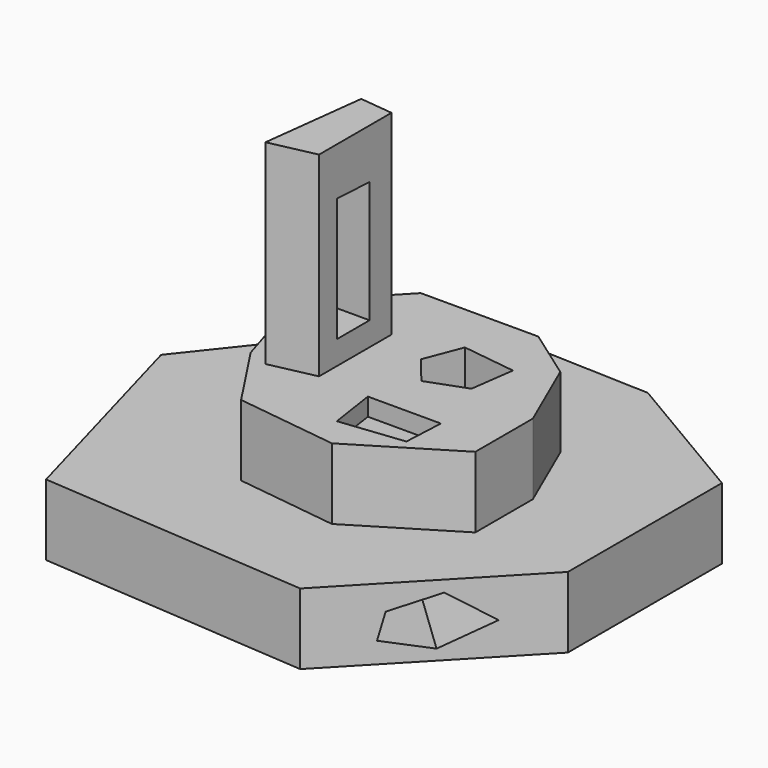
from build123d import *

# Parameters (mm, degrees)
PAD_DEPTH       = 20
PAD001_DEPTH    = 20
PAD002_DEPTH    = 55
POCKET_DEPTH    = 5
POCKET001_DEPTH = 40.001
POCKET002_DEPTH = 57.547898
POCKET003_DEPTH = 152.1407019841


with BuildPart() as part:
    # Sketch → Pad (new body)
    with BuildSketch(Plane.XY):
        Polygon((-20.459476, 40.117115), (31.15163, 38.233494), (70.707581, 14.876653), (70.707581, -39.371517), (29.644735, -82.317986), (-46.453392, -76.667137), (-63.782669, -14.507775), align=None)
    extrude(amount=PAD_DEPTH)

    # Sketch001 (on Face9 of Pad) → Pad001 (join)
    with BuildSketch(Plane.XY.offset(20)):
        Polygon((-13.537989, 14.137136), (19.591442, 14.137136), (33.855503, 4.014249), (43.058121, -17.151772), (43.058121, -37.397533), (15.910392, -53.96225), (-12.617725, -50.281197), (-25.041264, -31.415821), (-32.863491, -6.108627), align=None)
    extrude(amount=PAD001_DEPTH)

    # Sketch002 (on Face19 of Pad001) → Pad002 (join)
    with BuildSketch(Plane.XY.offset(40)):
        Polygon((-15.579205, -4.296096), (-6.235771, -5.306198), (-6.235771, -30.811253), (-19.114557, -33.589027), align=None)
    extrude(amount=PAD002_DEPTH)

    # Sketch003 (on Face19 of Pad002) → Pocket (cut)
    with BuildSketch(Plane.XY.offset(40)):
        Polygon((8.155688, -31.614529), (28.728765, -31.614529), (28.157293, -43.044018), (10.155849, -45.044178), align=None)
    extrude(amount=-POCKET_DEPTH, mode=Mode.SUBTRACT)

    # Sketch004 (on Face19 of Pocket) → Pocket001 (cut, through all)
    with BuildSketch(Plane.XY.offset(40)):
        Polygon((10.206862, 0), (25.338156, -1.995884), (23.614338, -14.445684), (12.696822, -18.467928), (6.184619, -10.42344), align=None)
    extrude(amount=-POCKET001_DEPTH, mode=Mode.SUBTRACT)

    # Sketch005 (on Face32 of Pocket001) → Pocket002 (cut, through all)
    with BuildSketch(Plane.YZ.offset(-6.235771)):
        Polygon((-24.452877, 81.538773), (-13.023387, 80.9673), (-13.023387, 46.678833), (-24.452877, 46.678833), align=None)
    extrude(amount=-POCKET002_DEPTH, mode=Mode.SUBTRACT)

    # Sketch006 (on Face9 of Pocket002) → Pocket003 (cut, through all)
    with BuildSketch(Plane(origin=(56.60434605, -54.1216914662, 0), x_dir=(0.6910786275, 0.7227795865, 0), z_dir=(0.7227795865, -0.6910786275, 0))):
        Polygon((-20.040229, 12.946631), (-7.015827, 16.777342), (5.050909, 9.115925), (-8.739645, 2.986793), (-21.955589, 5.859823), align=None)
    extrude(amount=-POCKET003_DEPTH, mode=Mode.SUBTRACT)


solid = part.part
